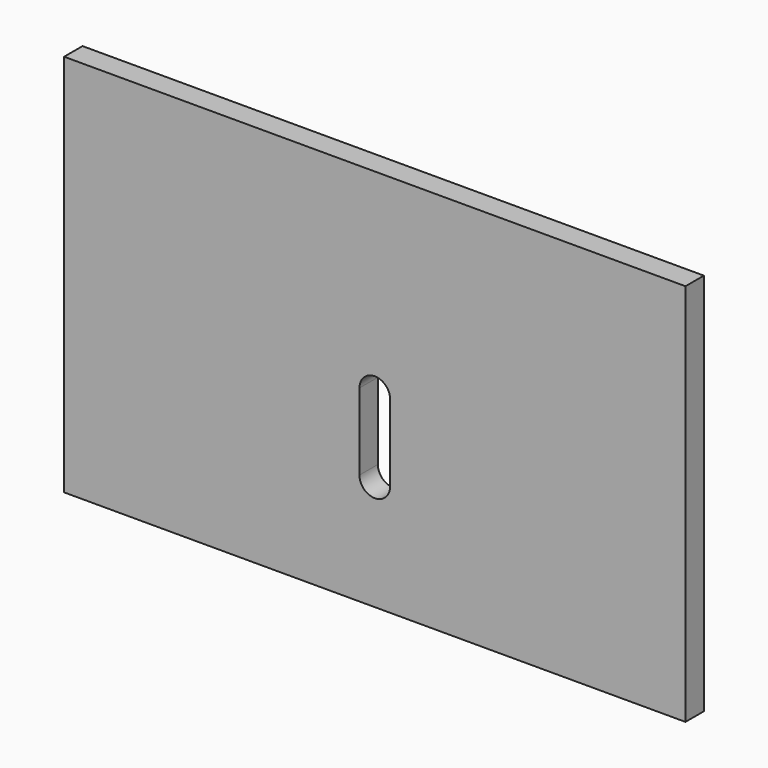
from build123d import *

# Parameters (mm, degrees)
F0_W     = 162
F0_H     = 100
F1_DEPTH = 3
F3_DEPTH = 25


with BuildPart() as f1:
    # F0 (on Front) → F1 (new body, symmetric)
    with BuildSketch(Plane.XZ):
        Rectangle(F0_W, F0_H)
    extrude(amount=F1_DEPTH, both=True)

    # F2 (on face) → F3 (cut)
    with BuildSketch(Plane.XZ.offset(3)):
        with BuildLine():
            ThreePointArc((-4, -21), (0, -25), (4, -21))
            Line((4, -21), (4, -1))
            ThreePointArc((4, -1), (0, 3), (-4, -1))
            Line((-4, -1), (-4, -21))
        make_face()
    extrude(amount=-F3_DEPTH, mode=Mode.SUBTRACT)


solid = f1.part
